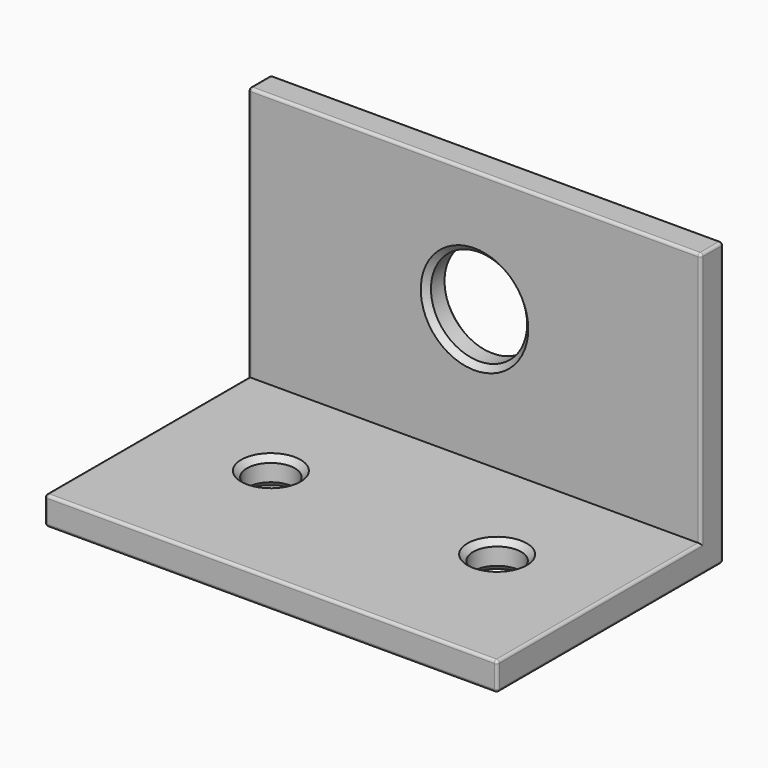
from build123d import *

# Parameters (mm, degrees)
F0_W     = 80
F0_H     = 50
F0_R     = 4.25
F1_DEPTH = 5
F2_W     = 80
F2_H     = 5
F3_DEPTH = 45
F4_R     = 8.5
F5_DEPTH = 25
F6_SIZE  = 1
F7_R     = 0.5


with BuildPart() as f1:
    # F0 (on Top) → F1 (new body)
    with BuildSketch(Plane.XY):
        with Locations((40, 25)):
            Rectangle(F0_W, F0_H)
        with Locations((20, 25)):
            Circle(F0_R, mode=Mode.SUBTRACT)
        with Locations((60, 25)):
            Circle(F0_R, mode=Mode.SUBTRACT)
    extrude(amount=F1_DEPTH)

    # F2 (on face) → F3 (join)
    with BuildSketch(Plane.XY.offset(5)):
        with Locations((40, 47.5)):
            Rectangle(F2_W, F2_H)
    extrude(amount=F3_DEPTH)

    # F4 (on face) → F5 (cut)
    with BuildSketch(Plane.XZ.offset(-45)):
        with Locations((40, 28.5)):
            Circle(F4_R)
    extrude(amount=-F5_DEPTH, mode=Mode.SUBTRACT)

    # F6
    f6_edges = [f1.edges().sort_by_distance(p)[0] for p in [
        (31.5, 45, 28.5),
        (31.5, 50, 28.5),
        (15.75, 25, 5),
        (55.75, 25, 5),
        (55.75, 25, 0),
        (15.75, 25, 0),
    ]]
    chamfer(f6_edges, length=F6_SIZE)

    # F7
    f7_edges = [f1.edges().sort_by_distance(p)[0] for p in [
        (40, 50, 50),
        (0, 47.5, 50),
        (40, 45, 50),
        (80, 47.5, 50),
        (0, 50, 25),
        (0, 45, 27.5),
        (0, 22.5, 5),
        (0, 0, 2.5),
        (0, 25, 0),
        (80, 0, 2.5),
        (40, 0, 0),
        (40, 0, 5),
        (80, 22.5, 5),
        (80, 45, 27.5),
        (80, 50, 25),
        (80, 25, 0),
        (40, 50, 0),
    ]]
    fillet(f7_edges, radius=F7_R)


solid = f1.part
